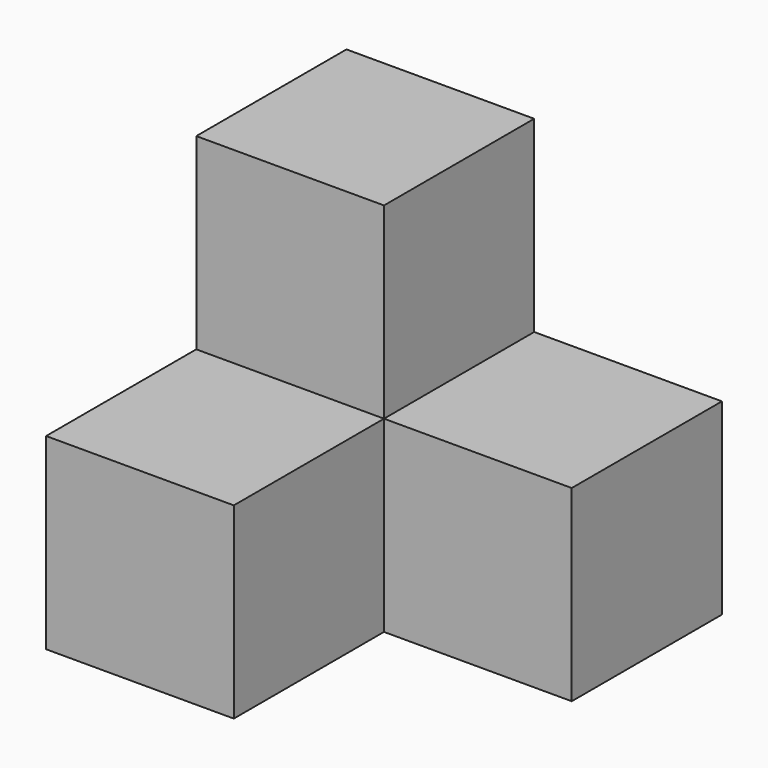
from build123d import *

# Parameters (mm, degrees)
BOX001_W     = 10
BOX001_H     = 10
BOX001_DEPTH = 10
BOX002_W     = 10
BOX002_H     = 10
BOX002_DEPTH = 10
BOX003_W     = 10
BOX003_H     = 10
BOX003_DEPTH = 10
BOX_W        = 10
BOX_H        = 10
BOX_DEPTH    = 10


with BuildPart() as cube001:
    # Box001 → Box001 (new body)
    with BuildSketch(Plane.XY.offset(10)):
        with Locations((5, 5)):
            Rectangle(BOX001_W, BOX001_H)
    extrude(amount=BOX001_DEPTH)


with BuildPart() as cube002:
    # Box002 → Box002 (new body)
    with BuildSketch(Plane(origin=(10, 0, 0), x_dir=(1, 0, 0), z_dir=(0, 0, 1))):
        with Locations((5, 5)):
            Rectangle(BOX002_W, BOX002_H)
    extrude(amount=BOX002_DEPTH)


with BuildPart() as cube003:
    # Box003 → Box003 (new body)
    with BuildSketch(Plane(origin=(0, -10, 0), x_dir=(1, 0, 0), z_dir=(0, 0, 1))):
        with Locations((5, 5)):
            Rectangle(BOX003_W, BOX003_H)
    extrude(amount=BOX003_DEPTH)


with BuildPart() as fusion:
    # Box → Box (new body)
    with BuildSketch(Plane.XY):
        with Locations((5, 5)):
            Rectangle(BOX_W, BOX_H)
    extrude(amount=BOX_DEPTH)

    # Fusion: union Cube001, Cube002, Cube003
    add(cube001.part)
    add(cube002.part)
    add(cube003.part)


solid = fusion.part
